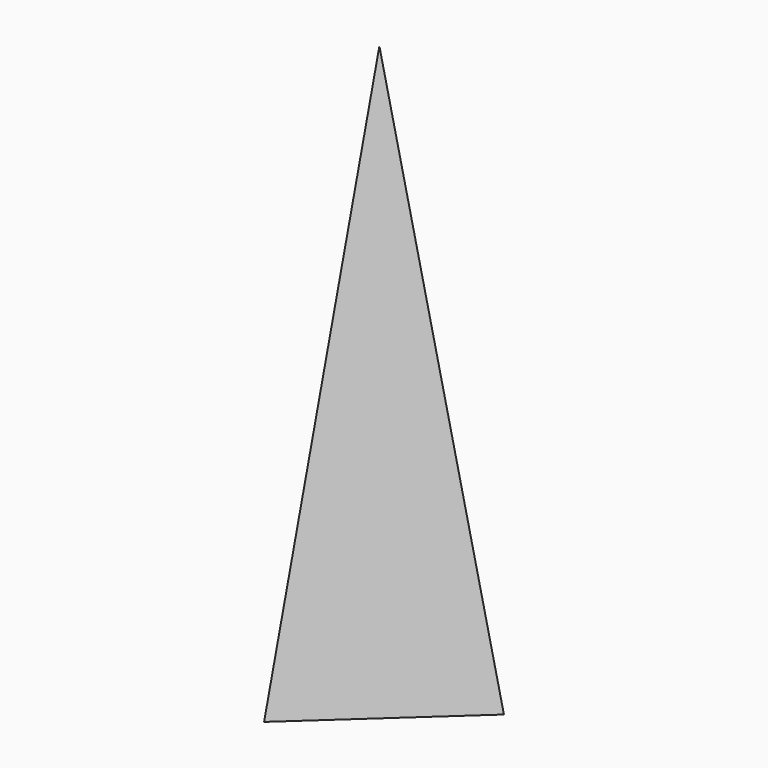
from build123d import *


with BuildPart() as f3:
    # F0 (on Top) → F3 section 0
    with BuildSketch(Plane.XY, mode=Mode.PRIVATE) as f3_s0:
        Polygon((119.229132, 26.375575), (-82.456484, 90.06767), (-36.772648, -116.443245), align=None)
    loft([f3_s0.sketch, Vertex(0, 0, 635)])


solid = f3.part
